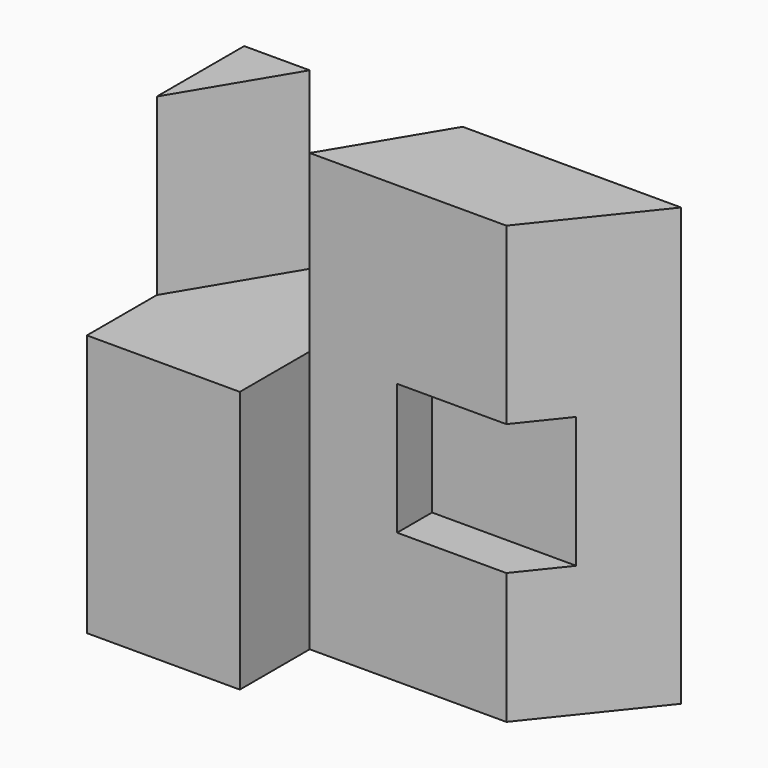
from build123d import *

# Parameters (mm, degrees)
F1_DEPTH = 60
F2_DEPTH = 15
F3_DEPTH = 100
F4_DEPTH = 100
F5_W     = 49.251026
F5_H     = 30
F6_DEPTH = 10


with BuildPart() as f1:
    # F0 (on Top) → F1 (new body)
    with BuildSketch(Plane.XY):
        Polygon((0, 45), (0, 20), (15, 45), align=None)
        Polygon((0, 20), (0, 0), (35, 0), (35, 20), (35, 20.001), (35, 45), (15, 45), align=None)
    extrude(amount=F1_DEPTH)

    # F0 (on Top) → F2 (join)
    with BuildSketch(Plane.XY):
        Polygon((35, 45), (35, 20.001), (50, 45), align=None)
    extrude(amount=F2_DEPTH)

    # F0 (on Top) → F3 (join)
    with BuildSketch(Plane.XY):
        Polygon((0, 45), (0, 20), (15, 45), align=None)
    extrude(amount=F3_DEPTH)

    # F0 (on Top) → F4 (join)
    with BuildSketch(Plane.XY):
        Polygon((35, 20.001), (35, 20), (80, 20), (100, 45), (50, 45), align=None)
    extrude(amount=F4_DEPTH)

    # F5 (on face) → F6 (cut)
    with BuildSketch(Plane.XZ.offset(-20)):
        with Locations((79.625513, 45)):
            Rectangle(F5_W, F5_H)
    extrude(amount=-F6_DEPTH, mode=Mode.SUBTRACT)


solid = f1.part
